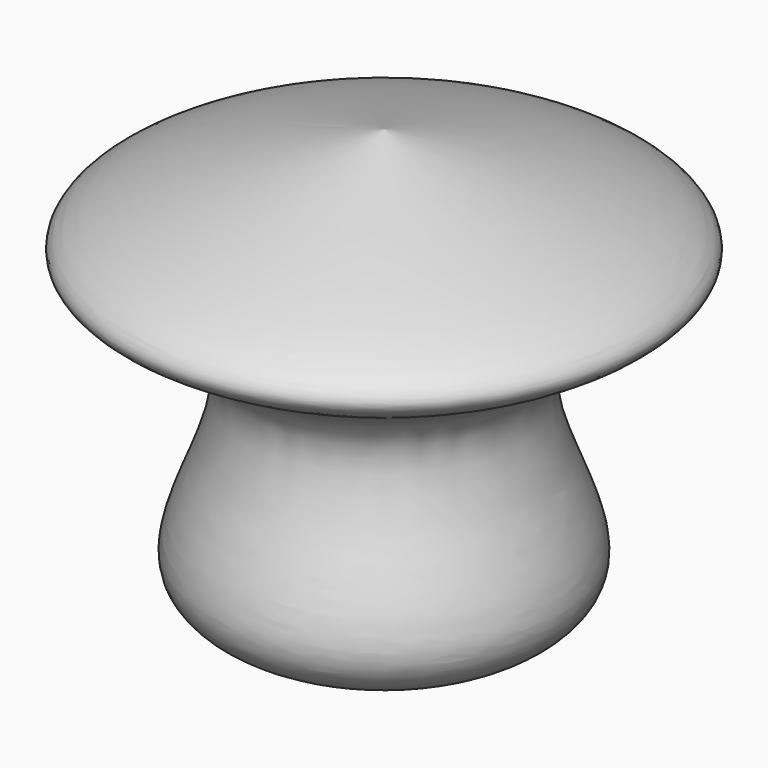
from build123d import *


with BuildPart() as f1:
    # F0 (on Front) → F1 (revolve)
    with BuildSketch(Plane.XZ):
        with BuildLine():
            add(Edge.make_bspline(
                [(0, 36.6892255843), (-25.3049839577, 29.6541509349), (-69.1265923125, 17.4712441233), (-10.9386983471, 4.2233965953), (-45.4902065158, -38.8085714719), (-15.3181699622, -44.356512072), (0, -47.1731573343)],
                knots=[0, 0, 0, 0, 0.2982870822, 0.5165550755, 0.7545578607, 1, 1, 1, 1], degree=3))
            Line((0, -47.1731573343), (0, 36.6892255843))
        make_face()
    revolve(axis=Axis((0, 0, -5.241965875), (0, 0, 1)))


solid = f1.part
